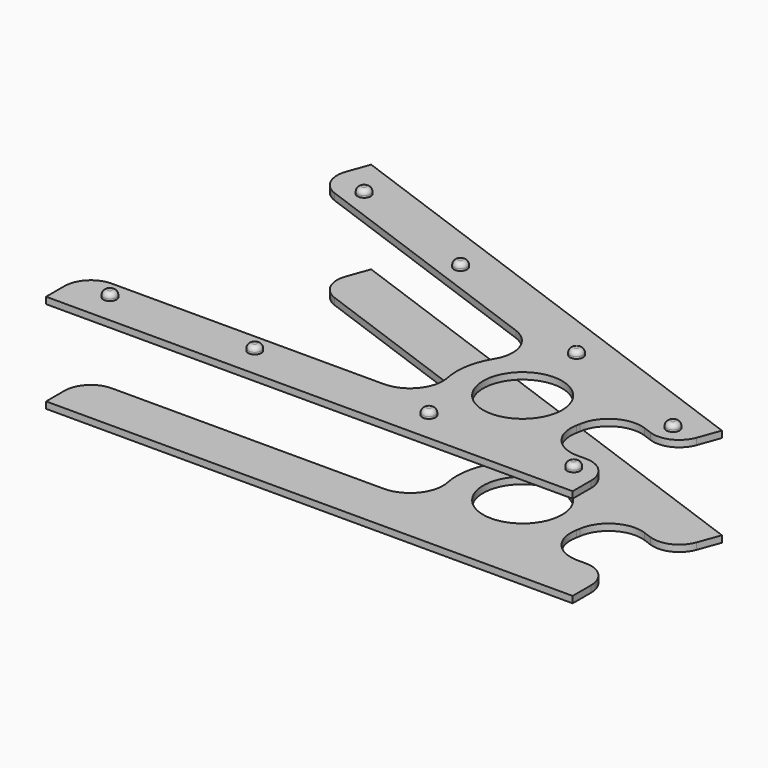
from build123d import *

# Parameters (mm, degrees)
F0_R     = 1
F0_R_2   = 6
F1_DEPTH = 1
F2_DEPTH = 1
F3_R     = 0.7


with BuildPart() as f1:
    # F0 (on Top) → F1 (new body)
    with BuildSketch(Plane.XY):
        with BuildLine():
            Line((-60, -12), (-60, -15.5))
            Line((-60, -15.5), (20, -15.5))
            Line((20, -15.5), (20, -12))
            ThreePointArc((20, -12), (18.828427, -9.171573), (16, -8))
            Line((16, -8), (14.696938, -8))
            ThreePointArc((14.696938, -8), (10.823955, -6.162278), (9.797959, -2))
            ThreePointArc((9.797959, -2), (9.848078, -1.736482), (9.89111, -1.471714))
            ThreePointArc((9.89111, -1.471714), (12.278814, 2.088636), (16.546766, 2.490892))
            Line((16.546766, 2.490892), (17.771243, 2.045219))
            ThreePointArc((17.771243, 2.045219), (20.829797, 2.178758), (22.898094, 4.435909))
            Line((22.898094, 4.435909), (24.095165, 7.724833))
            Line((24.095165, 7.724833), (-51.080245, 35.086444))
            Line((-51.080245, 35.086444), (-52.277316, 31.79752))
            ThreePointArc((-52.277316, 31.79752), (-52.143776, 28.738966), (-49.886626, 26.670669))
            Line((-49.886626, 26.670669), (-11.074443, 12.54419))
            ThreePointArc((-11.074443, 12.54419), (-8.063568, 9.492658), (-8.523029, 5.230485))
            ThreePointArc((-8.523029, 5.230485), (-9.848078, 1.736482), (-9.797959, -2))
            ThreePointArc((-9.797959, -2), (-10.823955, -6.162278), (-14.696938, -8))
            Line((-14.696938, -8), (-56, -8))
            ThreePointArc((-56, -8), (-58.828427, -9.171573), (-60, -12))
        make_face()
        with Locations((-54, -10.868356)):
            Circle(F0_R, mode=Mode.SUBTRACT)
        with Locations((-32, -10.868356)):
            Circle(F0_R, mode=Mode.SUBTRACT)
        with Locations((-5.547583, -10.868356)):
            Circle(F0_R, mode=Mode.SUBTRACT)
        with Locations((16.452417, -10.868356)):
            Circle(F0_R, mode=Mode.SUBTRACT)
        Circle(F0_R_2, mode=Mode.SUBTRACT)
        with Locations((19.177412, 4.585856)):
            Circle(F0_R, mode=Mode.SUBTRACT)
        with Locations((-26.352967, 21.157559)):
            Circle(F0_R, mode=Mode.SUBTRACT)
        with Locations((-47.026205, 28.682002)):
            Circle(F0_R, mode=Mode.SUBTRACT)
        with Locations((-1.495826, 12.110299)):
            Circle(F0_R, mode=Mode.SUBTRACT)
        with Locations((-54, -10.868356)):
            Circle(F0_R)
        with Locations((-32, -10.868356)):
            Circle(F0_R)
        with Locations((-5.547583, -10.868356)):
            Circle(F0_R)
        with Locations((16.452417, -10.868356)):
            Circle(F0_R)
        with Locations((-47.026205, 28.682002)):
            Circle(F0_R)
        with Locations((-26.352967, 21.157559)):
            Circle(F0_R)
        with Locations((-1.495826, 12.110299)):
            Circle(F0_R)
        with Locations((19.177412, 4.585856)):
            Circle(F0_R)
    extrude(amount=-F1_DEPTH)

    # F0 (on Top) → F2 (join)
    with BuildSketch(Plane.XY):
        with Locations((-47.026205, 28.682002)):
            Circle(F0_R)
        with Locations((-26.352967, 21.157559)):
            Circle(F0_R)
        with Locations((-1.495826, 12.110299)):
            Circle(F0_R)
        with Locations((19.177412, 4.585856)):
            Circle(F0_R)
        with Locations((16.452417, -10.868356)):
            Circle(F0_R)
        with Locations((-5.547583, -10.868356)):
            Circle(F0_R)
        with Locations((-32, -10.868356)):
            Circle(F0_R)
        with Locations((-54, -10.868356)):
            Circle(F0_R)
    extrude(amount=F2_DEPTH)

    # F3
    f3_edges = [f1.edges().sort_by_distance(p)[0] for p in [
        (-48.026205, 28.682002, 1),
        (-27.352967, 21.157559, 1),
        (-2.495826, 12.110299, 1),
        (18.177412, 4.585856, 1),
        (-55, -10.868356, 1),
        (-33, -10.868356, 1),
        (-6.547583, -10.868356, 1),
        (15.452417, -10.868356, 1),
    ]]
    fillet(f3_edges, radius=F3_R)


with BuildPart() as f4_1:
    # F4: instance of F1
    add(f1.part.mirror(Plane.XY))


with BuildPart() as f4_1_1:
    # F5: moved
    add(f4_1.part.moved(Location((0, 0, -15))))


solid = Compound([f1.part, f4_1_1.part])
